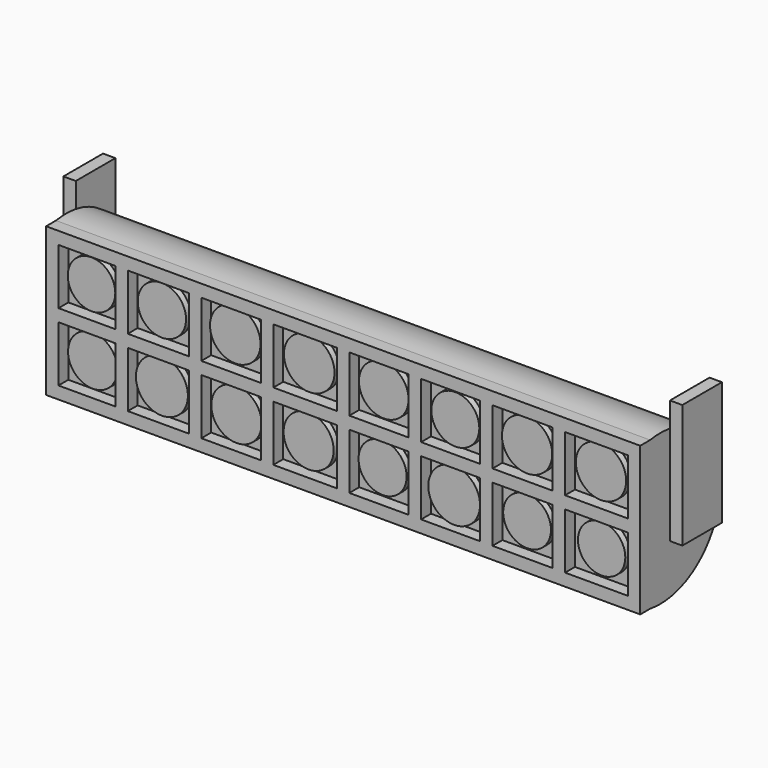
from build123d import *

# Parameters (mm, degrees)
F1_DEPTH  = 304.8
F2_W      = 25.4
F2_H      = 63.5
F3_DEPTH  = 6.35
F4_W      = 25.4
F4_H      = 63.5
F5_DEPTH  = 6.35
F6_W      = 304.8
F6_H      = 76.2
F6_W_2    = 292.099996
F6_H_2    = 63.499996
F7_DEPTH  = 6.35
F9_DEPTH  = 6.35
F10_R     = 12.18433
F10_R_2   = 12.378685
F10_R_3   = 12.666462
F10_R_4   = 13.33955
F10_R_5   = 12.965917
F10_R_6   = 12.911659
F10_R_7   = 12.980347
F10_R_8   = 12.853529
F10_R_9   = 12.732802
F10_R_10  = 12.333231
F10_R_11  = 12.306635
F10_R_12  = 13.272723
F10_R_13  = 12.908035
F10_R_14  = 12.255033
F10_R_15  = 12.911662
F10_R_16  = 12.143618
F11_DEPTH = 3.175


with BuildPart() as f1:
    # F0 (on Right) → F1 (new body)
    with BuildSketch(Plane.YZ):
        with BuildLine():
            Line((0, 76.2), (0, 0))
            ThreePointArc((0, 0), (45.114366, 38.1), (0, 76.2))
        make_face()
    extrude(amount=F1_DEPTH)

    # F2 (on face) → F3 (join)
    with BuildSketch(Plane(origin=(0, 0, 0), x_dir=(0, -1, 0), z_dir=(-1, 0, 0))):
        with Locations((-25.4, 57.15)):
            Rectangle(F2_W, F2_H)
    extrude(amount=F3_DEPTH)

    # F4 (on face) → F5 (join)
    with BuildSketch(Plane.YZ.offset(304.8)):
        with Locations((25.4, 57.15)):
            Rectangle(F4_W, F4_H)
    extrude(amount=F5_DEPTH)

    # F6 (on face) → F7 (join)
    with BuildSketch(Plane.XZ):
        with Locations((152.4, 38.1)):
            Rectangle(F6_W, F6_H)
        with Locations((152.4, 38.1)):
            Rectangle(F6_W_2, F6_H_2, mode=Mode.SUBTRACT)
    extrude(amount=F7_DEPTH)

    # F8 (on face) → F9 (join)
    with BuildSketch(Plane.XZ):
        Polygon((298.449998, 34.925), (298.449998, 41.275), (266.241582, 41.275), (266.241582, 69.849998), (259.891582, 69.849998), (259.891582, 41.275), (229.023391, 41.275), (229.023391, 69.849998), (222.673391, 69.849998), (222.673391, 41.275), (192.373246, 41.275), (192.373246, 69.849998), (186.023246, 69.849998), (186.023246, 41.275), (155.575, 41.275), (155.575, 69.849998), (149.225, 69.849998), (149.225, 41.275), (116.587477, 41.275), (116.587477, 69.849998), (110.237477, 69.849998), (110.237477, 41.275), (79.624019, 41.275), (79.624019, 69.849998), (73.274019, 69.849998), (73.274019, 41.275), (41.912001, 41.275), (41.912001, 69.849998), (35.562001, 69.849998), (35.562001, 41.275), (6.350002, 41.275), (6.350002, 34.925), (35.562001, 34.925), (35.562001, 6.350002), (41.912001, 6.350002), (41.912001, 34.925), (73.274019, 34.925), (73.274019, 6.350002), (79.624019, 6.350002), (79.624019, 34.925), (110.237477, 34.925), (110.237477, 6.350002), (116.587477, 6.350002), (116.587477, 34.925), (149.225, 34.925), (149.225, 6.350002), (155.575, 6.350002), (155.575, 34.925), (186.023246, 34.925), (186.023246, 6.350002), (192.373246, 6.350002), (192.373246, 34.925), (222.673391, 34.925), (222.673391, 6.350002), (229.023391, 6.350002), (229.023391, 34.925), (259.891582, 34.925), (259.891582, 6.350002), (266.241582, 6.350002), (266.241582, 34.925), align=None)
    extrude(amount=F9_DEPTH)

    # F10 (on face) → F11 (join)
    with BuildSketch(Plane.XZ):
        with Locations((20.775795, 55.44908)):
            Circle(F10_R)
        with Locations((56.877859, 55.44908)):
            Circle(F10_R_2)
        with Locations((21.387694, 21.182716)):
            Circle(F10_R_3)
        with Locations((56.877859, 21.182716)):
            Circle(F10_R_4)
        with Locations((94.509669, 56.672879)):
            Circle(F10_R_5)
        with Locations((95.12157, 20.876767)):
            Circle(F10_R_6)
        with Locations((132.447436, 56.060981)):
            Circle(F10_R_7)
        with Locations((132.141486, 20.876767)):
            Circle(F10_R_8)
        with Locations((170.691147, 56.366932)):
            Circle(F10_R_9)
        with Locations((170.079246, 21.182716)):
            Circle(F10_R_10)
        with Locations((207.405105, 55.143133)):
            Circle(F10_R_11)
        with Locations((206.793204, 20.570816)):
            Circle(F10_R_12)
        with Locations((244.217366, 55.595852)):
            Circle(F10_R_13)
        with Locations((244.217366, 21.182716)):
            Circle(F10_R_14)
        with Locations((282.155126, 55.901799)):
            Circle(F10_R_15)
        with Locations((282.461077, 21.182716)):
            Circle(F10_R_16)
    extrude(amount=F11_DEPTH)


solid = f1.part
